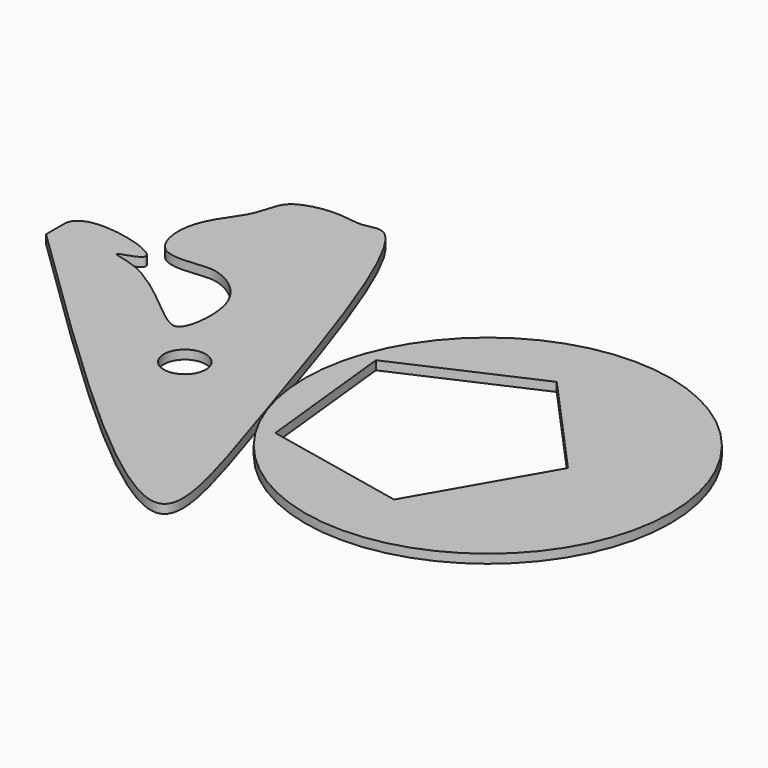
from build123d import *

# Parameters (mm, degrees)
F0_R     = 58.8285230849
F1_DEPTH = 25
F0_R_2   = 513.4273367269


with BuildPart() as f1:
    # F0 (on Top) → F1 (new body)
    with BuildSketch(Plane.XY):
        with BuildLine():
            Line((0, 62.7406684931), (0, 0))
            add(Edge.make_bspline(
                [(0, 0), (424.0218751885, -415.2563931813), (1155.7685809528, -1134.2366900659), (906.2264386073, -387.40348215), (624.4298468479, 523.9752028403), (516.3278613509, 458.8315245942), (433.8223636879, 484.668678163), (323.0204117611, 457.2211275802), (306.6816127157, 406.5836305157), (292.0292979708, 350.6330644538), (236.4017049736, 282.5513334208), (207.2876572193, 193.2277657573), (240.2555498644, 83.205506121), (354.1805465575, 96.9563664823), (414.0772529304, 101.2718326095), (538.5695708527, 18.3918030065), (520.7845514677, -175.7694418951), (450.6569538036, -155.893736223), (281.2834802916, 13.8600540382), (135.9826552298, 20.8436605682), (339.794916342, 60.1719898992), (0, 149.8900696536), (0, 62.7406684931)],
                knots=[0, 0, 0, 0, 0.1419489189, 0.2240918445, 0.3449797846, 0.375090312, 0.4115495759, 0.4518391592, 0.4786976552, 0.5081405728, 0.5446903163, 0.5829554589, 0.6209202844, 0.6595866764, 0.6904489035, 0.7360239625, 0.7853229541, 0.8109448103, 0.874610362, 0.9083395882, 0.9396172644, 1, 1, 1, 1], degree=3))
        make_face()
        with Locations((616.241812706, -283.3720743656)):
            Circle(F0_R, mode=Mode.SUBTRACT)
    extrude(amount=F1_DEPTH)


with BuildPart() as f1b:
    # F0 (on Top) → F1, piece 2 (new body)
    with BuildSketch(Plane.XY):
        with Locations((1383.7096691132, -178.8253635168)):
            Circle(F0_R_2)
        Polygon((938.6129263696, -15.3160550452), (1312.6349475618, 152.0054464961), (1587.3463127379, -152.0054464961), (1383.1052523203, -507.2160128568), (982.1659699079, -422.7373230386), align=None, mode=Mode.SUBTRACT)
    extrude(amount=F1_DEPTH)


solid = Compound([f1.part, f1b.part])
